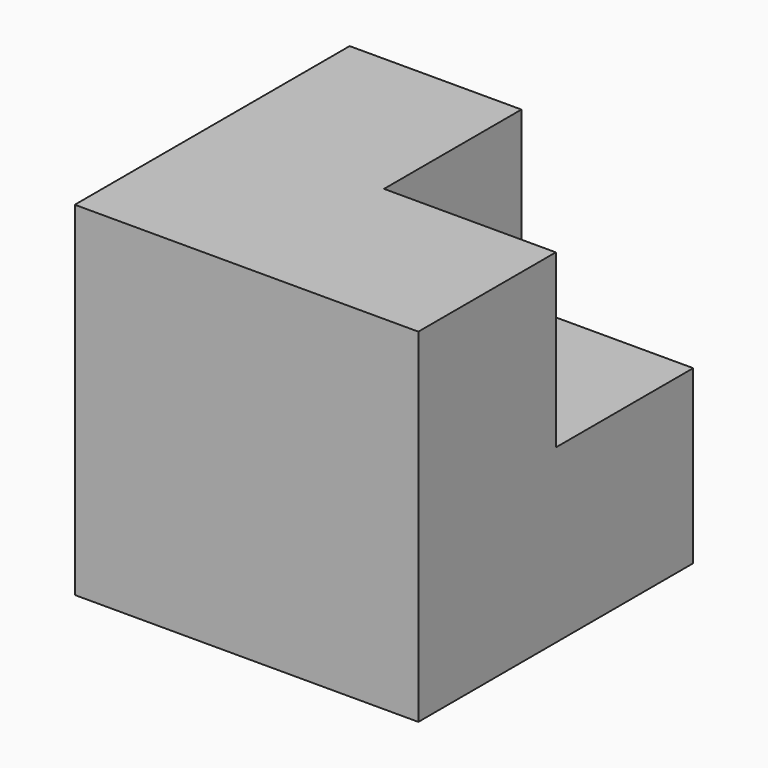
from build123d import *

# Parameters (mm, degrees)
BOX001_W     = 10
BOX001_H     = 10
BOX001_DEPTH = 10
BOX_W        = 10
BOX_H        = 10
BOX_DEPTH    = 10


with BuildPart() as obj1:
    # Box001 → Box001 (new body)
    with BuildSketch(Plane(origin=(5, 5, 5), x_dir=(1, 0, 0), z_dir=(0, 0, 1))):
        with Locations((5, 5)):
            Rectangle(BOX001_W, BOX001_H)
    extrude(amount=BOX001_DEPTH)


with BuildPart() as obj2:
    # Box → Box (new body)
    with BuildSketch(Plane.XY):
        with Locations((5, 5)):
            Rectangle(BOX_W, BOX_H)
    extrude(amount=BOX_DEPTH)

    # Cut: cut obj1
    add(obj1.part, mode=Mode.SUBTRACT)


solid = obj2.part
